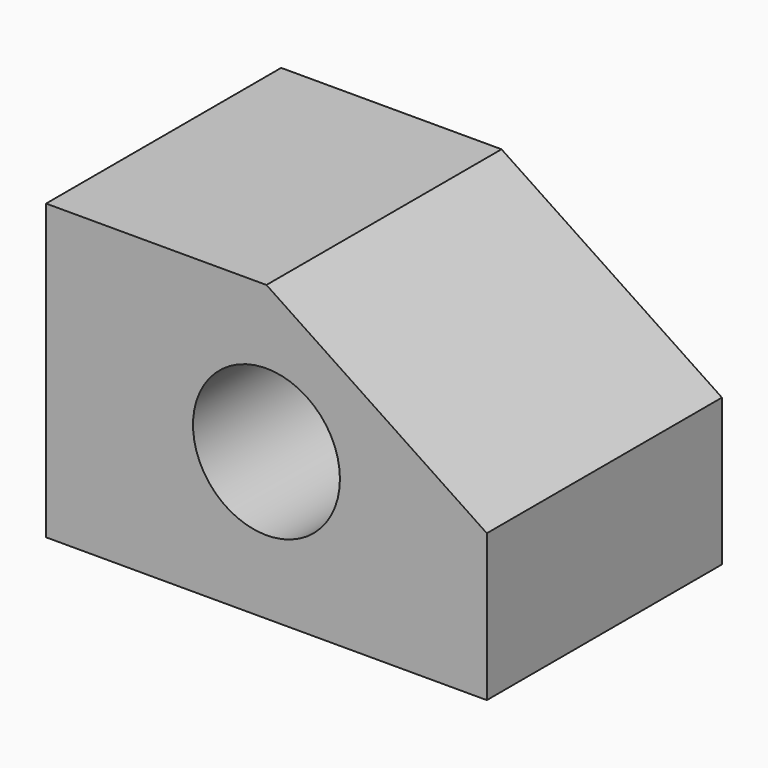
from build123d import *

# Parameters (mm, degrees)
F0_R     = 12.7
F1_DEPTH = 50.8
F2_DEPTH = 50.8


with BuildPart() as f1:
    # F0 (on Front) → F1 (new body)
    with BuildSketch(Plane.XZ):
        Polygon((0, 25.4), (0, 0), (38.1, 0), (76.2, 0), (76.2, 25.4), (38.1, 50.8), (0, 50.8), align=None)
        with Locations((38.1, 25.4)):
            Circle(F0_R, mode=Mode.SUBTRACT)
        Polygon((38.1, 50.8), (76.2, 25.4), (76.2, 50.8), align=None)
    extrude(amount=F1_DEPTH)

    # F0 (on Front) → F2 (cut)
    with BuildSketch(Plane.XZ):
        Polygon((38.1, 50.8), (76.2, 25.4), (76.2, 50.8), align=None)
    extrude(amount=F2_DEPTH, mode=Mode.SUBTRACT)


solid = f1.part
